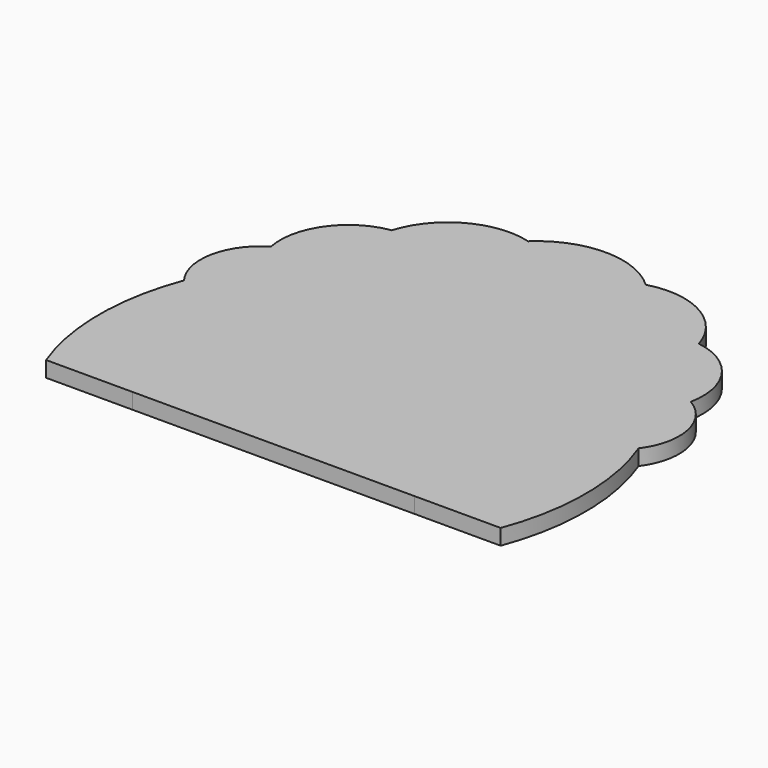
from build123d import *

# Parameters (mm, degrees)
F2_DEPTH = 10


with BuildPart() as f2:
    # F1 (on Top) → F2 (new body)
    with BuildSketch(Plane.XY):
        with BuildLine():
            Line((105, 0), (105, 110))
            ThreePointArc((105, 110), (0, 215), (-105, 110))
            Line((-105, 110), (-105, 0))
            Line((-105, 0), (-90, 0))
            Line((-90, 0), (-90, 110))
            ThreePointArc((-90, 110), (0, 200), (90, 110))
            Line((90, 110), (90, 2.92e-08))
            Line((90, 0), (105, 0))
        make_face()
        with BuildLine():
            ThreePointArc((-105, 110), (0, 215), (105, 110))
            Line((105, 110), (105, 0))
            Line((105, 0), (145, 0))
            Line((145, 0), (145, 110))
            ThreePointArc((145, 110), (142.2138656585, 138.2880966923), (133.9625322141, 165.4890976929))
            ThreePointArc((133.9625322141, 165.4890976929), (118.7770464219, 193.1685832709), (97.9605801043, 216.9052138375))
            ThreePointArc((97.9605801043, 216.9052138375), (69.7433714933, 237.1253795776), (37.5287615399, 250.0592448119))
            ThreePointArc((37.5287615399, 250.0592448119), (0, 255), (-37.5287615399, 250.0592448119))
            ThreePointArc((-37.5287615399, 250.0592448119), (-69.7433714933, 237.1253795776), (-97.9605801043, 216.9052138375))
            ThreePointArc((-97.9605801043, 216.9052138375), (-118.7770464219, 193.1685832709), (-133.9625322141, 165.4890976929))
            ThreePointArc((-133.9625322141, 165.4890976929), (-142.2138656585, 138.2880966923), (-145, 110))
            Line((-145, 110), (-145, 0))
            Line((-145, 0), (-105, 0))
            Line((-105, 0), (-105, 110))
        make_face()
        with BuildLine():
            add(Edge.make_bspline(
                [(-140, 20), (-140, -1.6506350946), (-117.5, 9.1746824527), (-95, 20), (-117.5, 30.8253175473), (-140, 41.6506350946), (-140, 20)],
                knots=[0, 0, 0, 2.0943951024, 2.0943951024, 4.1887902048, 4.1887902048, 6.2831853072, 6.2831853072, 6.2831853072], degree=2, weights=[1, 0.5, 1, 0.5, 1, 0.5, 1]))
        make_face(mode=Mode.SUBTRACT)
        with BuildLine():
            add(Edge.make_bspline(
                [(-140, 65), (-140, 43.3493649054), (-117.5, 54.1746824527), (-95, 65), (-117.5, 75.8253175473), (-140, 86.6506350946), (-140, 65)],
                knots=[0, 0, 0, 2.0943951024, 2.0943951024, 4.1887902048, 4.1887902048, 6.2831853072, 6.2831853072, 6.2831853072], degree=2, weights=[1, 0.5, 1, 0.5, 1, 0.5, 1]))
        make_face(mode=Mode.SUBTRACT)
        with BuildLine():
            add(Edge.make_bspline(
                [(-140, 110), (-140, 88.3493649054), (-117.5, 99.1746824527), (-95, 110), (-117.5, 120.8253175473), (-140, 131.6506350946), (-140, 110)],
                knots=[0, 0, 0, 2.0943951024, 2.0943951024, 4.1887902048, 4.1887902048, 6.2831853072, 6.2831853072, 6.2831853072], degree=2, weights=[1, 0.5, 1, 0.5, 1, 0.5, 1]))
        make_face(mode=Mode.SUBTRACT)
        with BuildLine():
            add(Edge.make_bspline(
                [(140, 20), (140, 41.6506350946), (117.5, 30.8253175473), (95, 20), (117.5, 9.1746824527), (140, -1.6506350946), (140, 20)],
                knots=[0, 0, 0, 2.0943951024, 2.0943951024, 4.1887902048, 4.1887902048, 6.2831853072, 6.2831853072, 6.2831853072], degree=2, weights=[1, 0.5, 1, 0.5, 1, 0.5, 1]))
        make_face(mode=Mode.SUBTRACT)
        with BuildLine():
            add(Edge.make_bspline(
                [(140, 65), (140, 86.6506350946), (117.5, 75.8253175473), (95, 65), (117.5, 54.1746824527), (140, 43.3493649054), (140, 65)],
                knots=[0, 0, 0, 2.0943951024, 2.0943951024, 4.1887902048, 4.1887902048, 6.2831853072, 6.2831853072, 6.2831853072], degree=2, weights=[1, 0.5, 1, 0.5, 1, 0.5, 1]))
        make_face(mode=Mode.SUBTRACT)
        with BuildLine():
            add(Edge.make_bspline(
                [(140, 110), (140, 131.6506350946), (117.5, 120.8253175473), (95, 110), (117.5, 99.1746824527), (140, 88.3493649054), (140, 110)],
                knots=[0, 0, 0, 2.0943951024, 2.0943951024, 4.1887902048, 4.1887902048, 6.2831853072, 6.2831853072, 6.2831853072], degree=2, weights=[1, 0.5, 1, 0.5, 1, 0.5, 1]))
        make_face(mode=Mode.SUBTRACT)
        with BuildLine():
            add(Edge.make_bspline(
                [(-130.4849415639, 157.8354290456), (-130.4849415639, 136.184793951), (-107.9849415639, 147.0101114983), (-85.4849415639, 157.8354290456), (-107.9849415639, 168.6607465929), (-130.4849415639, 179.4860641402), (-130.4849415639, 157.8354290456)],
                knots=[0, 0, 0, 2.0943951024, 2.0943951024, 4.1887902048, 4.1887902048, 6.2831853072, 6.2831853072, 6.2831853072], degree=2, weights=[1, 0.5, 1, 0.5, 1, 0.5, 1]))
        make_face(mode=Mode.SUBTRACT)
        with BuildLine():
            add(Edge.make_bspline(
                [(-99.448775952, 202.1596671013), (-99.448775952, 180.5090320067), (-76.948775952, 191.334349554), (-54.448775952, 202.1596671013), (-76.948775952, 212.9849846486), (-99.448775952, 223.8103021959), (-99.448775952, 202.1596671013)],
                knots=[0, 0, 0, 2.0943951024, 2.0943951024, 4.1887902048, 4.1887902048, 6.2831853072, 6.2831853072, 6.2831853072], degree=2, weights=[1, 0.5, 1, 0.5, 1, 0.5, 1]))
        make_face(mode=Mode.SUBTRACT)
        with BuildLine():
            add(Edge.make_bspline(
                [(-47.3523806378, 230.7407282861), (-47.3523806378, 209.0900931915), (-24.8523806378, 219.9154107388), (-2.3523806378, 230.7407282861), (-24.8523806378, 241.5660458334), (-47.3523806378, 252.3913633807), (-47.3523806378, 230.7407282861)],
                knots=[0, 0, 0, 2.0943951024, 2.0943951024, 4.1887902048, 4.1887902048, 6.2831853072, 6.2831853072, 6.2831853072], degree=2, weights=[1, 0.5, 1, 0.5, 1, 0.5, 1]))
        make_face(mode=Mode.SUBTRACT)
        with BuildLine():
            add(Edge.make_bspline(
                [(130.4849415639, 157.8354290456), (130.4849415639, 179.4860641402), (107.9849415639, 168.6607465929), (85.4849415639, 157.8354290456), (107.9849415639, 147.0101114983), (130.4849415639, 136.184793951), (130.4849415639, 157.8354290456)],
                knots=[0, 0, 0, 2.0943951024, 2.0943951024, 4.1887902048, 4.1887902048, 6.2831853072, 6.2831853072, 6.2831853072], degree=2, weights=[1, 0.5, 1, 0.5, 1, 0.5, 1]))
        make_face(mode=Mode.SUBTRACT)
        with BuildLine():
            add(Edge.make_bspline(
                [(47.3523806378, 230.7407282861), (47.3523806378, 252.3913633807), (24.8523806378, 241.5660458334), (2.3523806378, 230.7407282861), (24.8523806378, 219.9154107388), (47.3523806378, 209.0900931915), (47.3523806378, 230.7407282861)],
                knots=[0, 0, 0, 2.0943951024, 2.0943951024, 4.1887902048, 4.1887902048, 6.2831853072, 6.2831853072, 6.2831853072], degree=2, weights=[1, 0.5, 1, 0.5, 1, 0.5, 1]))
        make_face(mode=Mode.SUBTRACT)
        with BuildLine():
            add(Edge.make_bspline(
                [(99.448775952, 202.1596671013), (99.448775952, 223.8103021959), (76.948775952, 212.9849846486), (54.448775952, 202.1596671013), (76.948775952, 191.334349554), (99.448775952, 180.5090320067), (99.448775952, 202.1596671013)],
                knots=[0, 0, 0, 2.0943951024, 2.0943951024, 4.1887902048, 4.1887902048, 6.2831853072, 6.2831853072, 6.2831853072], degree=2, weights=[1, 0.5, 1, 0.5, 1, 0.5, 1]))
        make_face(mode=Mode.SUBTRACT)
        with BuildLine():
            ThreePointArc((-145, 110), (-155.0496837882, 55), (-145, 0))
            Line((-145, 0), (-145, 110))
        make_face()
        with BuildLine():
            ThreePointArc((-133.9625322141, 165.4890976929), (-151.8883856552, 140.2124783682), (-145, 110))
            ThreePointArc((-145, 110), (-142.2138656585, 138.2880966923), (-133.9625322141, 165.4890976929))
        make_face()
        with BuildLine():
            ThreePointArc((-97.9605801043, 216.9052138375), (-126.948851738, 198.890542954), (-133.9625322141, 165.4890976929))
            ThreePointArc((-133.9625322141, 165.4890976929), (-118.7770464219, 193.1685832709), (-97.9605801043, 216.9052138375))
        make_face()
        with BuildLine():
            ThreePointArc((-37.5287615399, 250.0592448119), (-74.4950323823, 245.7865136926), (-97.9605801043, 216.9052138375))
            ThreePointArc((-97.9605801043, 216.9052138375), (-69.7433714933, 237.1253795776), (-37.5287615399, 250.0592448119))
        make_face()
        with BuildLine():
            ThreePointArc((-37.5287615399, 250.0592448119), (0, 255), (37.5287615399, 250.0592448119))
            ThreePointArc((37.5287615399, 250.0592448119), (0, 264.8969025948), (-37.5287615399, 250.0592448119))
        make_face()
        with BuildLine():
            ThreePointArc((37.5287615399, 250.0592448119), (69.7433714933, 237.1253795776), (97.9605801043, 216.9052138375))
            ThreePointArc((97.9605801043, 216.9052138375), (74.4950323823, 245.7865136926), (37.5287615399, 250.0592448119))
        make_face()
        with BuildLine():
            ThreePointArc((97.9605801043, 216.9052138375), (118.7770464219, 193.1685832709), (133.9625322141, 165.4890976929))
            ThreePointArc((133.9625322141, 165.4890976929), (126.948851738, 198.890542954), (97.9605801043, 216.9052138375))
        make_face()
        with BuildLine():
            ThreePointArc((133.9625322141, 165.4890976929), (142.2138656585, 138.2880966923), (145, 110))
            ThreePointArc((145, 110), (151.8883856552, 140.2124783682), (133.9625322141, 165.4890976929))
        make_face()
        with BuildLine():
            Line((145, 110), (145, 0))
            ThreePointArc((145, 0), (155.0496837882, 55), (145, 110))
        make_face()
        with BuildLine():
            add(Edge.make_bspline(
                [(140, 20), (140, 41.6506350946), (117.5, 30.8253175473), (95, 20), (117.5, 9.1746824527), (140, -1.6506350946), (140, 20)],
                knots=[0, 0, 0, 2.0943951024, 2.0943951024, 4.1887902048, 4.1887902048, 6.2831853072, 6.2831853072, 6.2831853072], degree=2, weights=[1, 0.5, 1, 0.5, 1, 0.5, 1]))
        make_face()
        with BuildLine():
            add(Edge.make_bspline(
                [(140, 65), (140, 86.6506350946), (117.5, 75.8253175473), (95, 65), (117.5, 54.1746824527), (140, 43.3493649054), (140, 65)],
                knots=[0, 0, 0, 2.0943951024, 2.0943951024, 4.1887902048, 4.1887902048, 6.2831853072, 6.2831853072, 6.2831853072], degree=2, weights=[1, 0.5, 1, 0.5, 1, 0.5, 1]))
        make_face()
        with BuildLine():
            add(Edge.make_bspline(
                [(140, 110), (140, 131.6506350946), (117.5, 120.8253175473), (95, 110), (117.5, 99.1746824527), (140, 88.3493649054), (140, 110)],
                knots=[0, 0, 0, 2.0943951024, 2.0943951024, 4.1887902048, 4.1887902048, 6.2831853072, 6.2831853072, 6.2831853072], degree=2, weights=[1, 0.5, 1, 0.5, 1, 0.5, 1]))
        make_face()
        with BuildLine():
            add(Edge.make_bspline(
                [(130.4849415639, 157.8354290456), (130.4849415639, 179.4860641402), (107.9849415639, 168.6607465929), (85.4849415639, 157.8354290456), (107.9849415639, 147.0101114983), (130.4849415639, 136.184793951), (130.4849415639, 157.8354290456)],
                knots=[0, 0, 0, 2.0943951024, 2.0943951024, 4.1887902048, 4.1887902048, 6.2831853072, 6.2831853072, 6.2831853072], degree=2, weights=[1, 0.5, 1, 0.5, 1, 0.5, 1]))
        make_face()
        with BuildLine():
            add(Edge.make_bspline(
                [(99.448775952, 202.1596671013), (99.448775952, 223.8103021959), (76.948775952, 212.9849846486), (54.448775952, 202.1596671013), (76.948775952, 191.334349554), (99.448775952, 180.5090320067), (99.448775952, 202.1596671013)],
                knots=[0, 0, 0, 2.0943951024, 2.0943951024, 4.1887902048, 4.1887902048, 6.2831853072, 6.2831853072, 6.2831853072], degree=2, weights=[1, 0.5, 1, 0.5, 1, 0.5, 1]))
        make_face()
        with BuildLine():
            add(Edge.make_bspline(
                [(47.3523806378, 230.7407282861), (47.3523806378, 252.3913633807), (24.8523806378, 241.5660458334), (2.3523806378, 230.7407282861), (24.8523806378, 219.9154107388), (47.3523806378, 209.0900931915), (47.3523806378, 230.7407282861)],
                knots=[0, 0, 0, 2.0943951024, 2.0943951024, 4.1887902048, 4.1887902048, 6.2831853072, 6.2831853072, 6.2831853072], degree=2, weights=[1, 0.5, 1, 0.5, 1, 0.5, 1]))
        make_face()
        with BuildLine():
            add(Edge.make_bspline(
                [(-47.3523806378, 230.7407282861), (-47.3523806378, 209.0900931915), (-24.8523806378, 219.9154107388), (-2.3523806378, 230.7407282861), (-24.8523806378, 241.5660458334), (-47.3523806378, 252.3913633807), (-47.3523806378, 230.7407282861)],
                knots=[0, 0, 0, 2.0943951024, 2.0943951024, 4.1887902048, 4.1887902048, 6.2831853072, 6.2831853072, 6.2831853072], degree=2, weights=[1, 0.5, 1, 0.5, 1, 0.5, 1]))
        make_face()
        with BuildLine():
            add(Edge.make_bspline(
                [(-99.448775952, 202.1596671013), (-99.448775952, 180.5090320067), (-76.948775952, 191.334349554), (-54.448775952, 202.1596671013), (-76.948775952, 212.9849846486), (-99.448775952, 223.8103021959), (-99.448775952, 202.1596671013)],
                knots=[0, 0, 0, 2.0943951024, 2.0943951024, 4.1887902048, 4.1887902048, 6.2831853072, 6.2831853072, 6.2831853072], degree=2, weights=[1, 0.5, 1, 0.5, 1, 0.5, 1]))
        make_face()
        with BuildLine():
            add(Edge.make_bspline(
                [(-130.4849415639, 157.8354290456), (-130.4849415639, 136.184793951), (-107.9849415639, 147.0101114983), (-85.4849415639, 157.8354290456), (-107.9849415639, 168.6607465929), (-130.4849415639, 179.4860641402), (-130.4849415639, 157.8354290456)],
                knots=[0, 0, 0, 2.0943951024, 2.0943951024, 4.1887902048, 4.1887902048, 6.2831853072, 6.2831853072, 6.2831853072], degree=2, weights=[1, 0.5, 1, 0.5, 1, 0.5, 1]))
        make_face()
        with BuildLine():
            add(Edge.make_bspline(
                [(-140, 110), (-140, 88.3493649054), (-117.5, 99.1746824527), (-95, 110), (-117.5, 120.8253175473), (-140, 131.6506350946), (-140, 110)],
                knots=[0, 0, 0, 2.0943951024, 2.0943951024, 4.1887902048, 4.1887902048, 6.2831853072, 6.2831853072, 6.2831853072], degree=2, weights=[1, 0.5, 1, 0.5, 1, 0.5, 1]))
        make_face()
        with BuildLine():
            add(Edge.make_bspline(
                [(-140, 65), (-140, 43.3493649054), (-117.5, 54.1746824527), (-95, 65), (-117.5, 75.8253175473), (-140, 86.6506350946), (-140, 65)],
                knots=[0, 0, 0, 2.0943951024, 2.0943951024, 4.1887902048, 4.1887902048, 6.2831853072, 6.2831853072, 6.2831853072], degree=2, weights=[1, 0.5, 1, 0.5, 1, 0.5, 1]))
        make_face()
        with BuildLine():
            add(Edge.make_bspline(
                [(-140, 20), (-140, -1.6506350946), (-117.5, 9.1746824527), (-95, 20), (-117.5, 30.8253175473), (-140, 41.6506350946), (-140, 20)],
                knots=[0, 0, 0, 2.0943951024, 2.0943951024, 4.1887902048, 4.1887902048, 6.2831853072, 6.2831853072, 6.2831853072], degree=2, weights=[1, 0.5, 1, 0.5, 1, 0.5, 1]))
        make_face()
        with BuildLine():
            Line((-90, 0), (90, 2.92e-08))
            Line((90, 2.92e-08), (90, 110))
            ThreePointArc((90, 110), (0, 200), (-90, 110))
            Line((-90, 110), (-90, 0))
        make_face()
    extrude(amount=F2_DEPTH)


solid = f2.part
